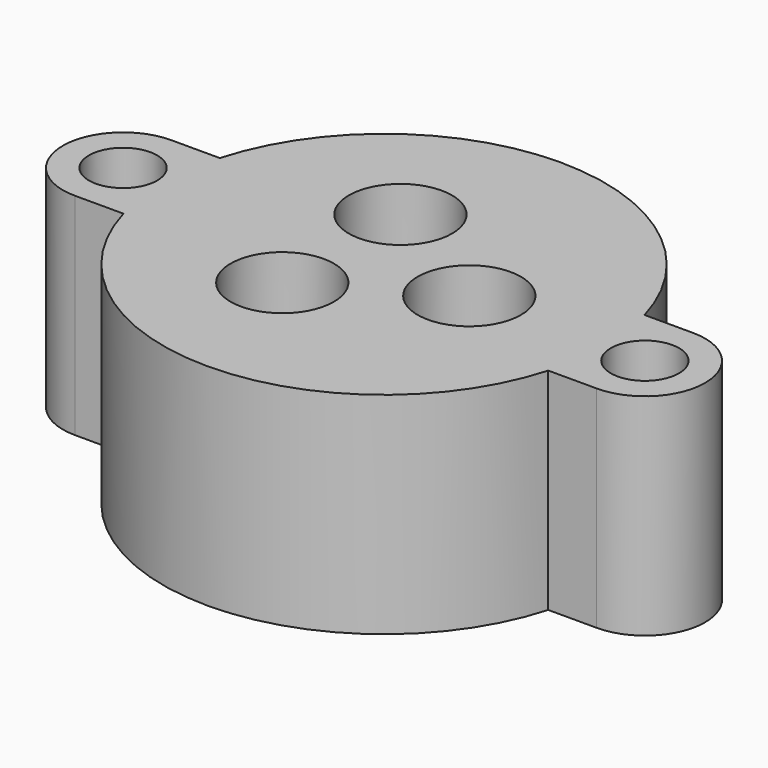
from build123d import *

# Parameters (mm, degrees)
CYLINDER171_R     = 1.7
CYLINDER171_DEPTH = 11
CYLINDER173_R     = 7.14375
CYLINDER173_DEPTH = 2.38125
CYLINDER170_R     = 9.525
CYLINDER170_DEPTH = 2.38125
CYLINDER177_R     = 2.2
CYLINDER177_DEPTH = 9
CYLINDER176_R     = 0.8
CYLINDER176_DEPTH = 5
CYLINDER172_R     = 2.575
CYLINDER172_DEPTH = 6
ARRAY002_COUNT    = 3
CYLINDER175_R     = 1.7
CYLINDER175_DEPTH = 11
BOX004_W          = 3
BOX004_H          = 6
BOX004_DEPTH      = 10.5
BOX005_W          = 3
BOX005_H          = 6
BOX005_DEPTH      = 10.5
CYLINDER178_R     = 3
CYLINDER178_DEPTH = 10.5
CYLINDER174_R     = 11
CYLINDER174_DEPTH = 10.5
CYLINDER179_R     = 3
CYLINDER179_DEPTH = 10.5


with BuildPart() as obj1:
    # Cylinder171 → Cylinder171 (new body)
    with BuildSketch(Plane(origin=(-13, 0, 0), x_dir=(1, 0, 0), z_dir=(0, 0, 1))):
        Circle(CYLINDER171_R)
    extrude(amount=CYLINDER171_DEPTH)


with BuildPart() as cylinder013:
    # Cylinder173 → Cylinder173 (new body)
    with BuildSketch(Plane.XY):
        Circle(CYLINDER173_R)
    extrude(amount=CYLINDER173_DEPTH)


with BuildPart() as oring002:
    # Cylinder170 → Cylinder170 (new body)
    with BuildSketch(Plane.XY):
        Circle(CYLINDER170_R)
    extrude(amount=CYLINDER170_DEPTH)

    # Cut024: cut Cylinder013
    add(cylinder013.part, mode=Mode.SUBTRACT)


with BuildPart() as oring002_1:
    # Cut024 placement: moved
    add(oring002.part.moved(Location((0, 0, -0.75))))


with BuildPart() as sealsubtraction002:
    # Cylinder177 → Cylinder177 (new body)
    with BuildSketch(Plane.XY.offset(1.3)):
        Circle(CYLINDER177_R)
    extrude(amount=CYLINDER177_DEPTH)


with BuildPart() as bottomwireoutlet002:
    # Cylinder176 → Cylinder176 (new body)
    with BuildSketch(Plane.XY.offset(-2)):
        Circle(CYLINDER176_R)
    extrude(amount=CYLINDER176_DEPTH)


with BuildPart() as sealarray002:
    # Cylinder172 → Cylinder172 (new body)
    with BuildSketch(Plane.XY.offset(4.5)):
        Circle(CYLINDER172_R)
    extrude(amount=CYLINDER172_DEPTH)

    # Fusion007: union SealSubtraction002, BottomWireOutlet002
    add(sealsubtraction002.part)
    add(bottomwireoutlet002.part)


with BuildPart() as sealarray002_1:
    # Fusion007 placement: moved
    add(sealarray002.part.moved(Location((4.25, 0, 0))))

    # Array002: SealArray002 ×3 about axis
    array002_axis = Axis((0, 0, 0), (0, 0, 1))


with BuildPart() as sealarray002_2:
    add(sealarray002_1.part)
    for i in range(1, ARRAY002_COUNT):
        add(sealarray002_1.part.rotate(array002_axis, i * 360 / ARRAY002_COUNT))


with BuildPart() as fusion008:
    # Cylinder175 → Cylinder175 (new body)
    with BuildSketch(Plane(origin=(13, 0, 0), x_dir=(1, 0, 0), z_dir=(0, 0, 1))):
        Circle(CYLINDER175_R)
    extrude(amount=CYLINDER175_DEPTH)

    # Fusion008: union obj1, Oring002, SealArray002
    add(obj1.part)
    add(oring002_1.part)
    add(sealarray002_2.part)


with BuildPart() as mountcube005:
    # Box004 → Box004 (new body)
    with BuildSketch(Plane(origin=(10, -3, 0), x_dir=(1, 0, 0), z_dir=(0, 0, 1))):
        with Locations((1.5, 3)):
            Rectangle(BOX004_W, BOX004_H)
    extrude(amount=BOX004_DEPTH)


with BuildPart() as mountcube006:
    # Box005 → Box005 (new body)
    with BuildSketch(Plane(origin=(-13, -3, 0), x_dir=(1, 0, 0), z_dir=(0, 0, 1))):
        with Locations((1.5, 3)):
            Rectangle(BOX005_W, BOX005_H)
    extrude(amount=BOX005_DEPTH)


with BuildPart() as mountflange005:
    # Cylinder178 → Cylinder178 (new body)
    with BuildSketch(Plane(origin=(-13, 0, 0), x_dir=(1, 0, 0), z_dir=(0, 0, 1))):
        Circle(CYLINDER178_R)
    extrude(amount=CYLINDER178_DEPTH)


with BuildPart() as body002:
    # Cylinder174 → Cylinder174 (new body)
    with BuildSketch(Plane.XY):
        Circle(CYLINDER174_R)
    extrude(amount=CYLINDER174_DEPTH)


with BuildPart() as cut023:
    # Cylinder179 → Cylinder179 (new body)
    with BuildSketch(Plane(origin=(13, 0, 0), x_dir=(1, 0, 0), z_dir=(0, 0, 1))):
        Circle(CYLINDER179_R)
    extrude(amount=CYLINDER179_DEPTH)

    # Fusion006: union MountCube005, MountCube006, MountFlange005, Body002
    add(mountcube005.part)
    add(mountcube006.part)
    add(mountflange005.part)
    add(body002.part)

    # Cut023: cut Fusion008
    add(fusion008.part, mode=Mode.SUBTRACT)


with BuildPart() as cut023_1:
    # Cut023 placement: moved
    add(cut023.part.moved(Location((0, 0, -10.5))))


solid = cut023_1.part
